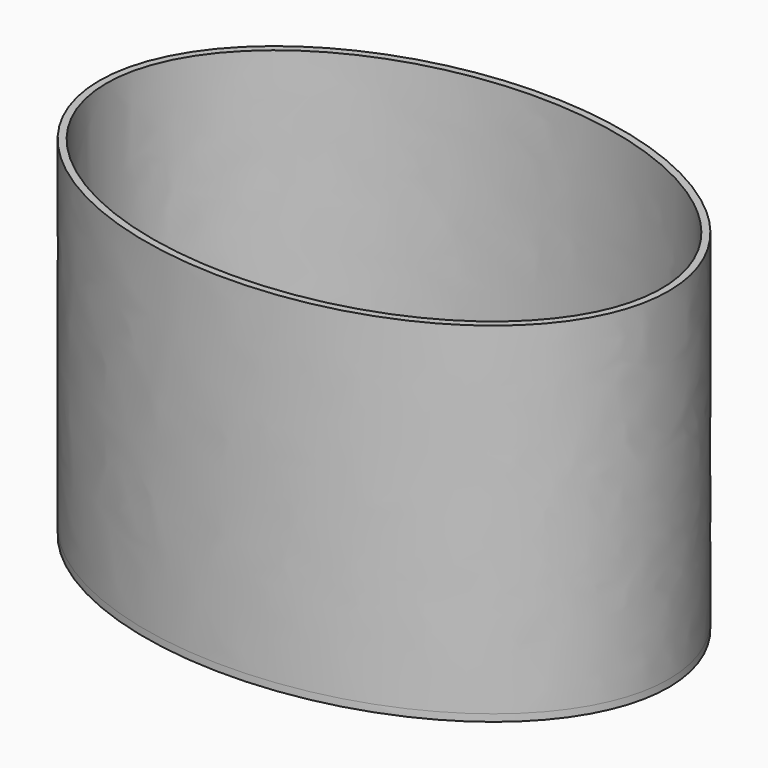
from build123d import *

# Parameters (mm, degrees)
F1_DEPTH = 1.5875
F3_DEPTH = 76.2


with BuildPart() as f1:
    # F0 (on Top) → F1 (new body)
    with BuildSketch(Plane.XY):
        with BuildLine():
            add(Edge.make_bspline(
                [(-63.5, 0), (-63.5, -76.9896583964), (31.75, -38.4948291982), (127, 0), (31.75, 38.4948291982), (-63.5, 76.9896583964), (-63.5, 0)],
                knots=[0, 0, 0, 2.0943951024, 2.0943951024, 4.1887902048, 4.1887902048, 6.2831853072, 6.2831853072, 6.2831853072], degree=2, weights=[1, 0.5, 1, 0.5, 1, 0.5, 1]))
        make_face()
    extrude(amount=F1_DEPTH)

    # F2 (on face) → F3 (join)
    with BuildSketch(Plane.XY.offset(1.5875)):
        with BuildLine():
            add(Edge.make_bspline(
                [(-63.5, 0), (-63.5, -76.9896583964), (31.75, -38.4948291982), (127, 0), (31.75, 38.4948291982), (-63.5, 76.9896583964), (-63.5, 0)],
                knots=[0, 0, 0, 2.0943951024, 2.0943951024, 4.1887902048, 4.1887902048, 6.2831853072, 6.2831853072, 6.2831853072], degree=2, weights=[1, 0.5, 1, 0.5, 1, 0.5, 1]))
        make_face()
        with BuildLine():
            add(Edge.make_bspline(
                [(-61.9125, 0), (-61.9125, -74.2400277394), (30.95625, -37.1200138697), (123.825, 0), (30.95625, 37.1200138697), (-61.9125, 74.2400277394), (-61.9125, 0)],
                knots=[0, 0, 0, 2.0943951024, 2.0943951024, 4.1887902048, 4.1887902048, 6.2831853072, 6.2831853072, 6.2831853072], degree=2, weights=[1, 0.5, 1, 0.5, 1, 0.5, 1]))
        make_face(mode=Mode.SUBTRACT)
    extrude(amount=F3_DEPTH)


solid = f1.part
